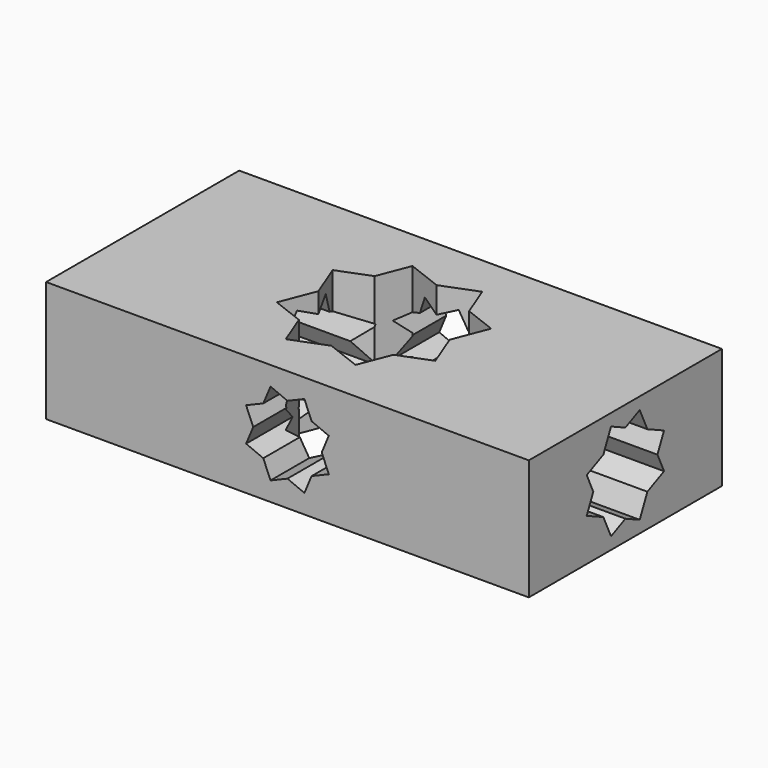
from build123d import *

# Parameters (mm, degrees)
F0_W     = 101.6
F0_H     = 50.8
F1_DEPTH = 12.7
F3_DEPTH = 25.4
F5_DEPTH = 81.28
F7_DEPTH = 125.222


with BuildPart() as f1:
    # F0 (on Top) → F1 (new body, symmetric)
    with BuildSketch(Plane.XY):
        Rectangle(F0_W, F0_H)
    extrude(amount=F1_DEPTH, both=True)

    # F2 (on face) → F3 (cut)
    with BuildSketch(Plane.XY.offset(12.7)):
        Polygon((-13.8203132717, 0), (-16.6731197387, -7.3403669521), (-9.9523638651, -9.9523638651), align=None)
        Polygon((-16.6731197387, 7.3403669521), (-13.8203132717, 0), (-9.9523638651, 9.9523638651), align=None)
        Polygon((-9.9523638651, 9.9523638651), (-13.8203132717, 0), (-9.9523638651, -9.9523638651), (0, -13.8203132717), (9.9523638651, -9.9523638651), (13.8203132717, 0), (9.9523638651, 9.9523638651), (0, 13.8203132717), align=None)
        Polygon((0, -13.8203132717), (-9.9523638651, -9.9523638651), (-7.3403669521, -16.6731197387), align=None)
        Polygon((-7.3403669521, 16.6731197387), (-9.9523638651, 9.9523638651), (0, 13.8203132717), align=None)
        Polygon((9.9523638651, -9.9523638651), (0, -13.8203132717), (7.3403669521, -16.6731197387), align=None)
        Polygon((7.3403669521, 16.6731197387), (0, 13.8203132717), (9.9523638651, 9.9523638651), align=None)
        Polygon((13.8203132717, 0), (9.9523638651, -9.9523638651), (16.6731197387, -7.3403669521), align=None)
        Polygon((16.6731197387, 7.3403669521), (9.9523638651, 9.9523638651), (13.8203132717, 0), align=None)
    extrude(amount=-F3_DEPTH, mode=Mode.SUBTRACT)

    # F4 (on face) → F5 (cut)
    with BuildSketch(Plane.XZ.offset(25.4)):
        Polygon((-7.2104095505, 0), (-8.7035782635, -3.5653209779), (-5.0820355483, -5.0820355483), align=None)
        Polygon((-8.7035782635, 3.5653209779), (-7.2104095505, 0), (-5.0820355483, 5.0820355483), align=None)
        Polygon((-5.0820355483, 5.0820355483), (-7.2104095505, 0), (-5.0820355483, -5.0820355483), (0, -7.2104095505), (5.0820355483, -5.0820355483), (7.2104095505, 0), (5.0820355483, 5.0820355483), (0, 7.2104095505), align=None)
        Polygon((0, -7.2104095505), (-5.0820355483, -5.0820355483), (-3.5653209779, -8.7035782635), align=None)
        Polygon((-3.5653209779, 8.7035782635), (-5.0820355483, 5.0820355483), (0, 7.2104095505), align=None)
        Polygon((5.0820355483, -5.0820355483), (0, -7.2104095505), (3.5653209779, -8.7035782635), align=None)
        Polygon((3.5653209779, 8.7035782635), (0, 7.2104095505), (5.0820355483, 5.0820355483), align=None)
        Polygon((7.2104095505, 0), (5.0820355483, -5.0820355483), (8.7035782635, -3.5653209779), align=None)
        Polygon((8.7035782635, 3.5653209779), (5.0820355483, 5.0820355483), (7.2104095505, 0), align=None)
    extrude(amount=-F5_DEPTH, mode=Mode.SUBTRACT)

    # F6 (on face) → F7 (cut)
    with BuildSketch(Plane.YZ.offset(50.8)):
        Polygon((-8.4402397494, 0), (-10.1716518402, -3.7750459742), (-5.7863499024, -5.7863499024), align=None)
        Polygon((-10.1716518402, 3.7750459742), (-8.4402397494, 0), (-5.7863499024, 5.7863499024), align=None)
        Polygon((-5.7863499024, 5.7863499024), (-8.4402397494, 0), (-5.7863499024, -5.7863499024), (0, -8.4402397494), (5.7863499024, -5.7863499024), (8.4402397494, 0), (5.7863499024, 5.7863499024), (0, 8.4402397494), align=None)
        Polygon((0, -8.4402397494), (-5.7863499024, -5.7863499024), (-3.7750459742, -10.1716518402), align=None)
        Polygon((-3.7750459742, 10.1716518402), (-5.7863499024, 5.7863499024), (0, 8.4402397494), align=None)
        Polygon((5.7863499024, -5.7863499024), (0, -8.4402397494), (3.7750459742, -10.1716518402), align=None)
        Polygon((3.7750459742, 10.1716518402), (0, 8.4402397494), (5.7863499024, 5.7863499024), align=None)
        Polygon((8.4402397494, 0), (5.7863499024, -5.7863499024), (10.1716518402, -3.7750459742), align=None)
        Polygon((10.1716518402, 3.7750459742), (5.7863499024, 5.7863499024), (8.4402397494, 0), align=None)
    extrude(amount=-F7_DEPTH, mode=Mode.SUBTRACT)


solid = f1.part
